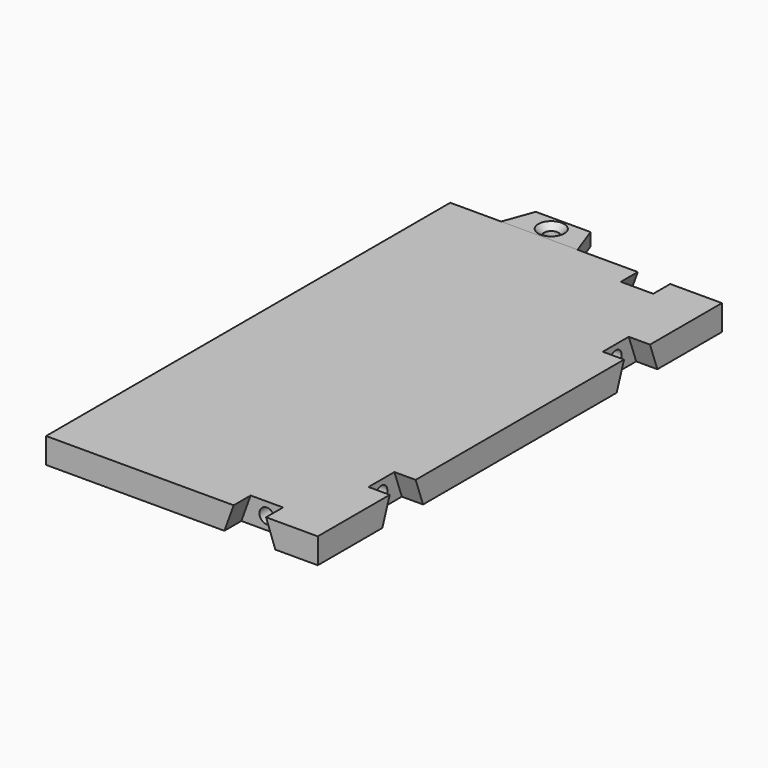
from build123d import *

# Parameters (mm, degrees)
BINDER020_W      = 119
BINDER020_H      = 64
PAD012_DEPTH     = 6
SKETCH_R         = 1.75
POCKET_DEPTH     = 9
POCKET001_DEPTH  = 5
POCKET002_DEPTH  = 5
SKETCH046_R      = 1.75
POCKET003_DEPTH  = 4
POCKET004_DEPTH  = 5
SKETCH053_R      = 1.75
POCKET005_DEPTH  = 4
PAD_DEPTH        = 3
HOLE_D           = 3.4
HOLE_DEPTH       = 25
HOLE_CSINK_D     = 6.1
HOLE_CSINK_ANGLE = 90


with BuildPart() as obj1:
    # Binder020 → Pad012 (new body)
    with BuildSketch(Plane(origin=(0, 117, 0), x_dir=(0, 1, 0), z_dir=(0, 0, 1))):
        Rectangle(BINDER020_W, BINDER020_H)
    extrude(amount=PAD012_DEPTH)

    # Sketch (on Face2 of Pad012) → Pocket (cut)
    with BuildSketch(Plane.YZ.offset(32)):
        with Locations((82.5, 3)):
            Circle(SKETCH_R)
        with Locations((151.5, 3)):
            Circle(SKETCH_R)
    extrude(amount=-POCKET_DEPTH, mode=Mode.SUBTRACT)

    # Sketch044 (on Face3 of Pocket) → Pocket001 (cut)
    with BuildSketch(Plane.YZ.offset(32)):
        Polygon((76.5, 0), (78.683821, 6), (86.316179, 6), (88.5, 0), align=None)
        Polygon((147.683821, 6), (155.316179, 6), (157.5, 0), (145.5, 0), align=None)
    extrude(amount=-POCKET001_DEPTH, mode=Mode.SUBTRACT)

    # Sketch045 (on Face1 of Pocket001) → Pocket002 (cut)
    with BuildSketch(Plane.XZ.offset(-57.5)):
        Polygon((10, 0), (12.183821, 6), (19.816179, 6), (22, 0), align=None)
    extrude(amount=-POCKET002_DEPTH, mode=Mode.SUBTRACT)

    # Sketch046 (on Face18 of Pocket002) → Pocket003 (cut)
    with BuildSketch(Plane.XZ.offset(-62.5)):
        with Locations((16, 3)):
            Circle(SKETCH046_R)
    extrude(amount=-POCKET003_DEPTH, mode=Mode.SUBTRACT)

    # Sketch047 (on Face6 of Pocket003) → Pocket004 (cut)
    with BuildSketch(Plane(origin=(0, 176.5, 0), x_dir=(-1, 0, 0), z_dir=(0, 1, 0))):
        Polygon((-22, 0), (-19.816179, 6), (-12.183821, 6), (-10, 0), align=None)
    extrude(amount=-POCKET004_DEPTH, mode=Mode.SUBTRACT)

    # Sketch053 (on Face20 of Pocket004) → Pocket005 (cut)
    with BuildSketch(Plane(origin=(0, 171.5, 0), x_dir=(-1, 0, 0), z_dir=(0, 1, 0))):
        with Locations((-16, 3)):
            Circle(SKETCH053_R)
    extrude(amount=-POCKET005_DEPTH, mode=Mode.SUBTRACT)


with BuildPart() as obj1_1:
    # Body017 placement: moved
    add(obj1.part.moved(Location((0, -117, 0))))


with BuildPart() as hole:
    # Sketch050 (on Face1 of Binder) → Pad (new body)
    with BuildSketch(Plane.XY.offset(3)):
        Polygon((-20, -59.5), (-17.452208, -66.5), (-4.547792, -66.5), (-2, -59.5), align=None)
    extrude(amount=PAD_DEPTH)

    # Hole
    with Locations(Plane.XY.offset(6)):
        with Locations((-11, -63)):
            CounterSinkHole(HOLE_D / 2, HOLE_CSINK_D / 2, depth=HOLE_DEPTH, counter_sink_angle=HOLE_CSINK_ANGLE)


with BuildPart() as part_mirroring:
    # Part__Mirroring: instance of Hole
    add(hole.part.mirror(Plane(origin=(0, 0, 0), x_dir=(1, 0, 0), z_dir=(0, 1, 0))))


solid = Compound([obj1_1.part, part_mirroring.part])
